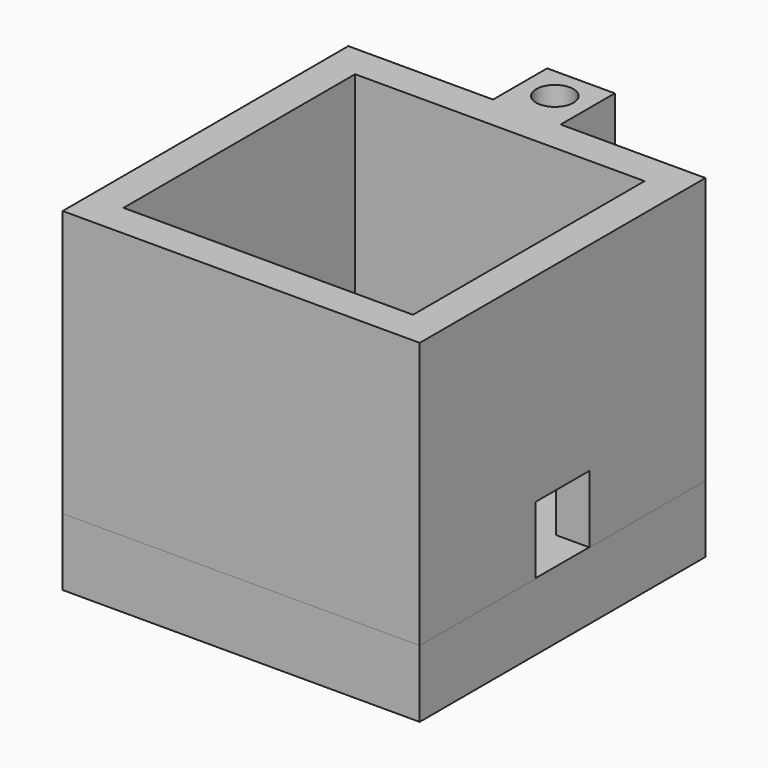
from build123d import *

# Parameters (mm, degrees)
F0_W      = 52.8
F0_H      = 52.8
F0_W_2    = 42.8
F0_H_2    = 42.8
F1_DEPTH  = 39.4
F2_W      = 52.8
F2_H      = 52.8
F3_DEPTH  = 10
F4_W      = 10
F4_H      = 10
F5_DEPTH  = 25
F6_W      = 10
F6_H      = 10
F7_DEPTH  = 10
F9_D      = 5.5
F9_DEPTH  = 9
F9_TIP    = 1.6523667023
F11_D     = 5.5
F11_DEPTH = 9
F11_TIP   = 1.6523667023


with BuildPart() as f1:
    # F0 (on Top) → F1 (new body)
    with BuildSketch(Plane.XY):
        with Locations((30.4056062862, 18.5175239619)):
            Rectangle(F0_W, F0_H)
        with Locations((30.4056062862, 18.5175239619)):
            Rectangle(F0_W_2, F0_H_2, mode=Mode.SUBTRACT)
    extrude(amount=F1_DEPTH)

    # F2 (on Top) → F3 (join)
    with BuildSketch(Plane.XY):
        with Locations((30.3273436148, 18.6009341)):
            Rectangle(F2_W, F2_H)
    extrude(amount=-F3_DEPTH)

    # F4 (on face) → F5 (cut)
    with BuildSketch(Plane.YZ.offset(56.8056062862)):
        with Locations((18.5175239619, 5)):
            Rectangle(F4_W, F4_H)
    extrude(amount=-F5_DEPTH, mode=Mode.SUBTRACT)

    # F6 (on face) → F7 (join)
    with BuildSketch(Plane.XY.offset(39.4)):
        with Locations((30.4056062862, 49.9175239619)):
            Rectangle(F6_W, F6_H)
    extrude(amount=-F7_DEPTH)

    # F9
    with Locations(Plane.XY.offset(39.4)):
        with Locations((30.4083697991, 50.0837391585)):
            Hole(F9_D / 2, depth=F9_DEPTH)
            with Locations((0, 0, -(F9_DEPTH + F9_TIP / 2))):  # 118° drill point
                Cone(0, F9_D / 2, F9_TIP, mode=Mode.SUBTRACT)

    # F11
    with Locations(Plane(origin=(0, 0, -10), x_dir=(1, 0, 0), z_dir=(0, 0, -1))):
        with Locations((30.3273436148, -19.0009341)):
            Hole(F11_D / 2, depth=F11_DEPTH)
            with Locations((0, 0, -(F11_DEPTH + F11_TIP / 2))):  # 118° drill point
                Cone(0, F11_D / 2, F11_TIP, mode=Mode.SUBTRACT)


solid = f1.part
